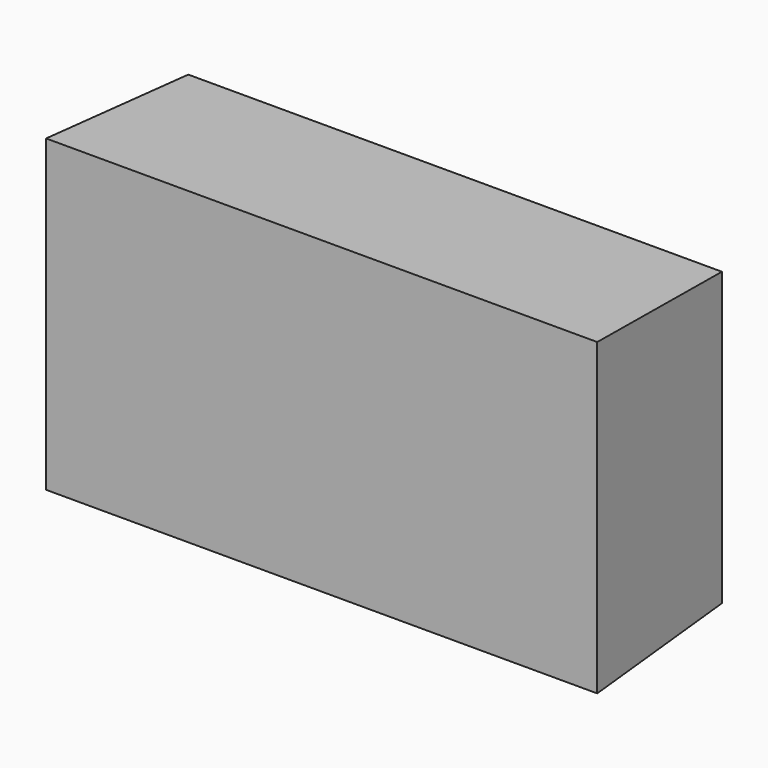
from build123d import *

# Parameters (mm, degrees)
F0_W     = 40.64
F0_H     = 22.225
F1_DEPTH = 12.7
F1_TAPER = -3


with BuildPart() as f1:
    # F0 (on Front) → F1 (new body)
    with BuildSketch(Plane.XZ):
        Rectangle(F0_W, F0_H)
    extrude(amount=F1_DEPTH, taper=F1_TAPER)


solid = f1.part
